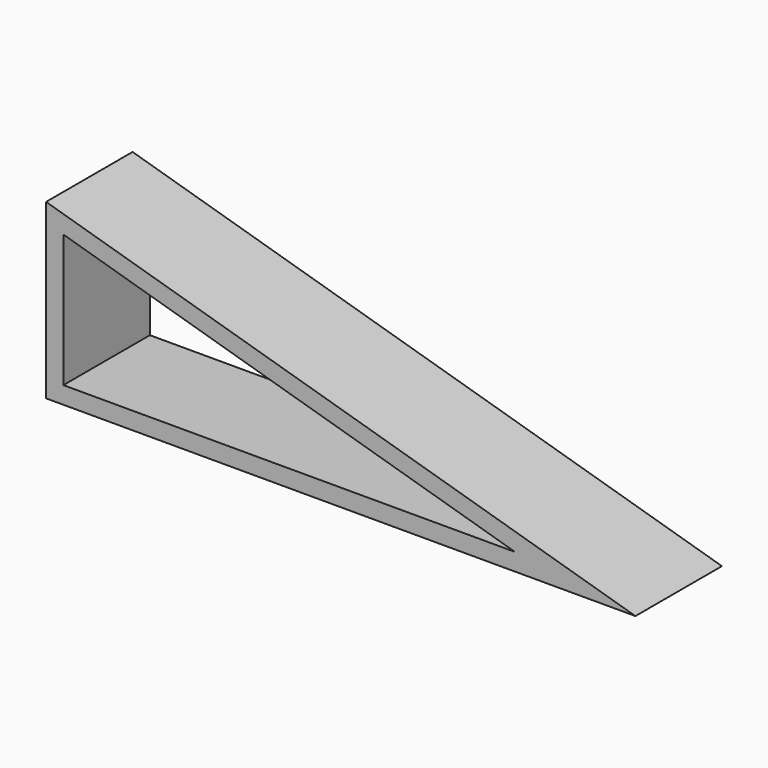
from build123d import *

# Parameters (mm, degrees)
F1_DEPTH = 33
F2_ANGLE = 90
F3_T     = -4
F4_ANGLE = -90
F5_START = -4
F5_DEPTH = 25


with BuildPart() as f1:
    # F0 (on Front) → F1 (new body)
    with BuildSketch(Plane.XZ):
        Polygon((0, 40), (0, 0), (136.249770642, 0), align=None)
    extrude(amount=F1_DEPTH)


with BuildPart() as f1_1:
    # F2: moved
    add(f1.part.rotate(Axis((68.124885321, 0, 0), (-1, 0, 0)), F2_ANGLE))

    # F3 (hollow: no face is removed)
    offset(amount=F3_T, mode=Mode.SUBTRACT)


with BuildPart() as f1_2:
    # F4: moved
    add(f1_1.part.rotate(Axis((68.124885321, 0, 0), (-1, 0, 0)), F4_ANGLE))

    # F1_face (on face) → F5 (intersect)
    with BuildSketch(Plane(origin=(45.416590214, -33, 13.3333333333), x_dir=(1, 0, 0), z_dir=(0, -1, 0)).offset(F5_START)):
        Polygon((-45.416590214, 26.6666666667), (-45.416590214, -13.3333333333), (90.833180428, -13.3333333333), align=None)
    extrude(amount=-F5_DEPTH, mode=Mode.INTERSECT)


solid = f1_2.part
